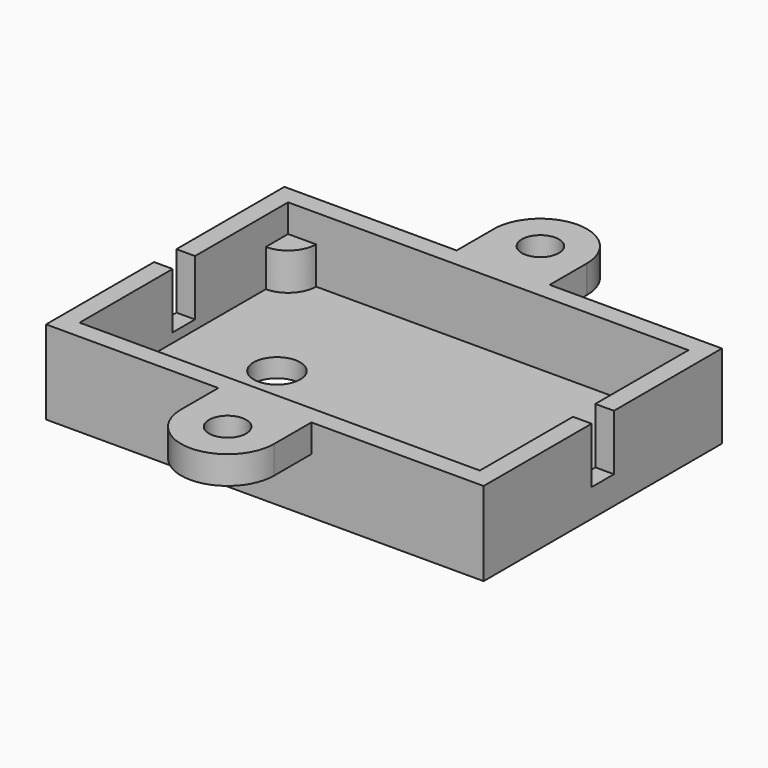
from build123d import *

# Parameters (mm, degrees)
F1_DEPTH = 9
F0_R     = 2.5
F2_DEPTH = 2
F3_DEPTH = 6
F4_START = 6
F0_R_2   = 2
F4_DEPTH = 3
F5_W     = 2
F5_H     = 3
F6_DEPTH = 6


with BuildPart() as f1:
    # F0 (on Top) → F1 (new body)
    with BuildSketch(Plane.XY):
        Polygon((-4.9984134711, 16), (-23.5, 16), (-23.5, -16), (-4.9984134711, -16), (4.9998776676, -16), (23.5, -16), (23.5, 16), (4.9998776676, 16), align=None)
        Polygon((-21.5, 11), (-21.5, 14), (-18.5, 14), (18.5, 14), (21.5, 14), (21.5, 11), (21.5, -11), (21.5, -14), (18.5, -14), (-18.5, -14), (-21.5, -14), (-21.5, -11), align=None, mode=Mode.SUBTRACT)
    extrude(amount=F1_DEPTH)

    # F0 (on Top) → F2 (join)
    with BuildSketch(Plane.XY):
        with BuildLine():
            Line((18.5, 14), (-18.5, 14))
            ThreePointArc((-18.5, 14), (-19.3786796564, 11.8786796564), (-21.5, 11))
            Line((-21.5, 11), (-21.5, -11))
            ThreePointArc((-21.5, -11), (-19.3786796564, -11.8786796564), (-18.5, -14))
            Line((-18.5, -14), (18.5, -14))
            ThreePointArc((18.5, -14), (19.3786796564, -11.8786796564), (21.5, -11))
            Line((21.5, -11), (21.5, 11))
            ThreePointArc((21.5, 11), (19.3786796564, 11.8786796564), (18.5, 14))
        make_face()
        with Locations((-11.5, 0)):
            Circle(F0_R, mode=Mode.SUBTRACT)
    extrude(amount=F2_DEPTH)

    # F0 (on Top) → F3 (join)
    with BuildSketch(Plane.XY):
        with BuildLine():
            Line((-18.5, 14), (-21.5, 14))
            Line((-21.5, 14), (-21.5, 11))
            ThreePointArc((-21.5, 11), (-19.3786796564, 11.8786796564), (-18.5, 14))
        make_face()
        with BuildLine():
            Line((21.5, 14), (18.5, 14))
            ThreePointArc((18.5, 14), (19.3786796564, 11.8786796564), (21.5, 11))
            Line((21.5, 11), (21.5, 14))
        make_face()
        with BuildLine():
            Line((21.5, -14), (21.5, -11))
            ThreePointArc((21.5, -11), (19.3786796564, -11.8786796564), (18.5, -14))
            Line((18.5, -14), (21.5, -14))
        make_face()
        with BuildLine():
            ThreePointArc((-18.5, -14), (-19.3786796564, -11.8786796564), (-21.5, -11))
            Line((-21.5, -11), (-21.5, -14))
            Line((-21.5, -14), (-18.5, -14))
        make_face()
    extrude(amount=F3_DEPTH)

    # F0 (on Top) → F4 (join)
    with BuildSketch(Plane.XY.offset(F4_START)):
        with BuildLine():
            Line((-4.9984134711, 20.8740525043), (-4.9984134711, 16))
            Line((-4.9984134711, 16), (4.9998776676, 16))
            Line((4.9998776676, 16), (4.9998776676, 20.9650241638))
            ThreePointArc((4.9998776676, 20.9650241638), (5, 21), (4.9998776676, 21.0349758362))
            ThreePointArc((4.9998776676, 21.0349758362), (-0.0804649964, 25.9993524965), (-4.9984134711, 20.8740525043))
        make_face()
        with Locations((0, 21)):
            Circle(F0_R_2, mode=Mode.SUBTRACT)
        with BuildLine():
            Line((4.9998776676, -16), (-4.9984134711, -16))
            Line((-4.9984134711, -16), (-4.9984134711, -20.8740525043))
            ThreePointArc((-4.9984134711, -20.8740525043), (-0.0804649964, -25.9993524965), (4.9998776676, -21.0349758362))
            Line((4.9998776676, -21.0349758362), (4.9998776676, -20.9650241638))
            Line((4.9998776676, -20.9650241638), (4.9998776676, -16))
        make_face()
        with Locations((0, -21)):
            Circle(F0_R_2, mode=Mode.SUBTRACT)
    extrude(amount=F4_DEPTH)

    # F5 (on face) → F6 (cut)
    with BuildSketch(Plane.XY.offset(9)):
        with Locations((-22.5, 0)):
            Rectangle(F5_W, F5_H)
        with Locations((22.5, 0)):
            Rectangle(F5_W, F5_H)
    extrude(amount=-F6_DEPTH, mode=Mode.SUBTRACT)


solid = f1.part
